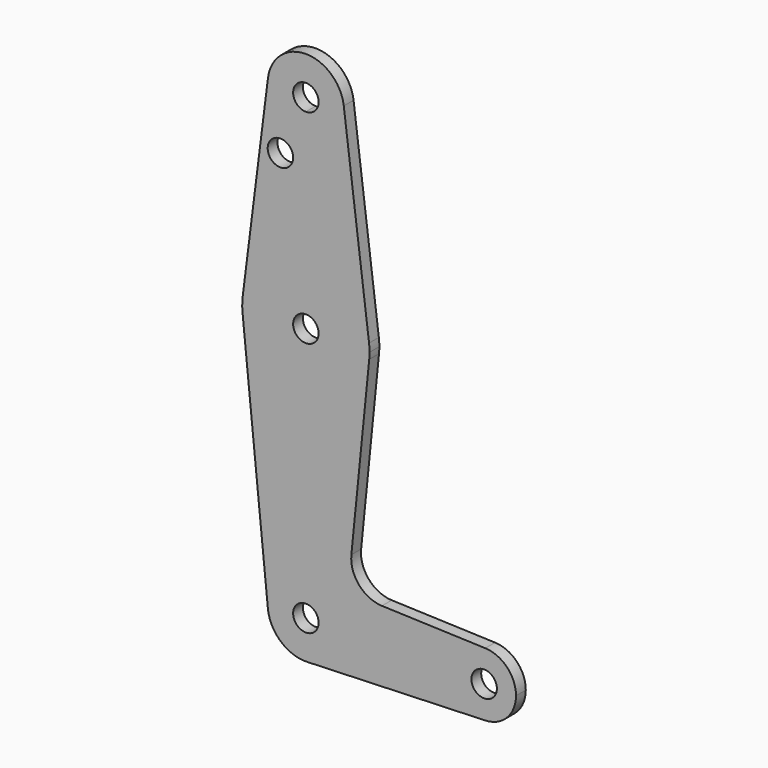
from build123d import *

# Parameters (mm, degrees)
F0_R     = 3.175
F1_DEPTH = 3.048


with BuildPart() as f1:
    # F0 (on Front) → F1 (new body)
    with BuildSketch(Plane.XZ):
        with BuildLine():
            ThreePointArc((-9.4502929642, 115.490625), (-7.14375, 107.9998046905), (0, 104.775))
            ThreePointArc((0, 104.775), (6.7351920908, 107.5648079092), (9.525, 114.3))
            ThreePointArc((9.525, 114.3), (9.5063048942, 114.896483242), (9.4502929642, 115.490625))
            ThreePointArc((9.4502929642, 115.490625), (0, 123.825), (-9.4502929642, 115.490625))
        make_face()
        with BuildLine():
            ThreePointArc((3.175, 114.3), (2.2450640303, 112.0549359697), (0, 111.125))
            ThreePointArc((0, 111.125), (-2.2450640303, 116.5450640303), (3.175, 114.3))
        make_face(mode=Mode.SUBTRACT)
        with BuildLine():
            ThreePointArc((9.525, 114.3), (6.7351920908, 107.5648079092), (0, 104.775))
            Line((0, 104.775), (0, 79.375))
            ThreePointArc((0, 79.375), (10.5003259839, 75.4062495872), (15.7504884297, 65.4843737616))
            Line((15.7504884297, 65.4843737616), (9.4502929642, 115.490625))
            ThreePointArc((9.4502929642, 115.490625), (9.5063048942, 114.896483242), (9.525, 114.3))
        make_face()
        with BuildLine():
            Line((0, 79.375), (0, 104.775))
            ThreePointArc((0, 104.775), (-7.14375, 107.9998046905), (-9.4502929642, 115.490625))
            Line((-9.4502929642, 115.490625), (-15.7504882737, 65.484375))
            ThreePointArc((-15.7504882737, 65.484375), (-10.5003255158, 75.40625), (0, 79.375))
        make_face()
        with Locations((-6.35, 100.0252)):
            Circle(F0_R, mode=Mode.SUBTRACT)
        with BuildLine():
            ThreePointArc((15.7504884297, 65.4843737616), (10.5003259839, 75.4062495872), (0, 79.375))
            ThreePointArc((0, 79.375), (-10.5003255158, 75.40625), (-15.7504882737, 65.484375))
            ThreePointArc((-15.7504882737, 65.484375), (-15.8737438155, 63.6997054867), (-15.7954255641, 61.9125))
            ThreePointArc((-15.7954255641, 61.9125), (0, 47.625), (15.7954255641, 61.9125))
            ThreePointArc((15.7954255641, 61.9125), (15.8550939106, 62.7052534459), (15.875, 63.5))
            ThreePointArc((15.875, 63.5), (15.8438415295, 64.4941381138), (15.7504884297, 65.4843737616))
        make_face()
        with BuildLine():
            ThreePointArc((3.175, 63.5), (-2.2450640303, 61.2549359697), (0, 66.675))
            ThreePointArc((0, 66.675), (2.2450640303, 65.7450640303), (3.175, 63.5))
        make_face(mode=Mode.SUBTRACT)
        with BuildLine():
            ThreePointArc((15.7954255641, 61.9125), (0, 47.625), (-15.7954255641, 61.9125))
            Line((-15.7954255641, 61.9125), (-9.4772553384, -0.9525))
            ThreePointArc((-9.4772553384, -0.9525), (-0.4768479324, 9.5130563464), (9.525, 0))
            ThreePointArc((9.525, 0), (6.8544083519, -6.6138272691), (0.3401787622, -9.5189234375))
            Line((0.3401787622, -9.5189234375), (44.7334821429, -7.9324362036))
            ThreePointArc((44.7334821429, -7.9324362036), (36.5125000183, -0.0005387766), (44.7324052746, 7.9324746146))
            Line((44.7324052746, 7.9324746146), (18.968327868, 8.8497055806))
            ThreePointArc((18.968327868, 8.8497055806), (13.2612039825, 11.5674628959), (11.3408358685, 17.5898921545))
            Line((11.3408358685, 17.5898921545), (15.7954255641, 61.9125))
        make_face()
        with BuildLine():
            ThreePointArc((9.525, 0), (-0.4768479324, 9.5130563464), (-9.4772553384, -0.9525))
            ThreePointArc((-9.4772553384, -0.9525), (-6.2623833097, -7.1769199718), (0.3401787622, -9.5189234375))
            ThreePointArc((0.3401787622, -9.5189234375), (6.8544083519, -6.6138272691), (9.525, 0))
        make_face()
        Circle(F0_R, mode=Mode.SUBTRACT)
        with BuildLine():
            ThreePointArc((44.7324052746, 7.9324746146), (36.5125000183, -0.0005387766), (44.7334821429, -7.9324362036))
            ThreePointArc((44.7334821429, -7.9324362036), (50.1620069047, -5.5115227815), (52.3875, 0))
            ThreePointArc((52.3875, 0), (50.1616327839, 5.5119104847), (44.7324052746, 7.9324746146))
        make_face()
        with Locations((44.45, 0)):
            Circle(F0_R, mode=Mode.SUBTRACT)
    extrude(amount=F1_DEPTH)


solid = f1.part
